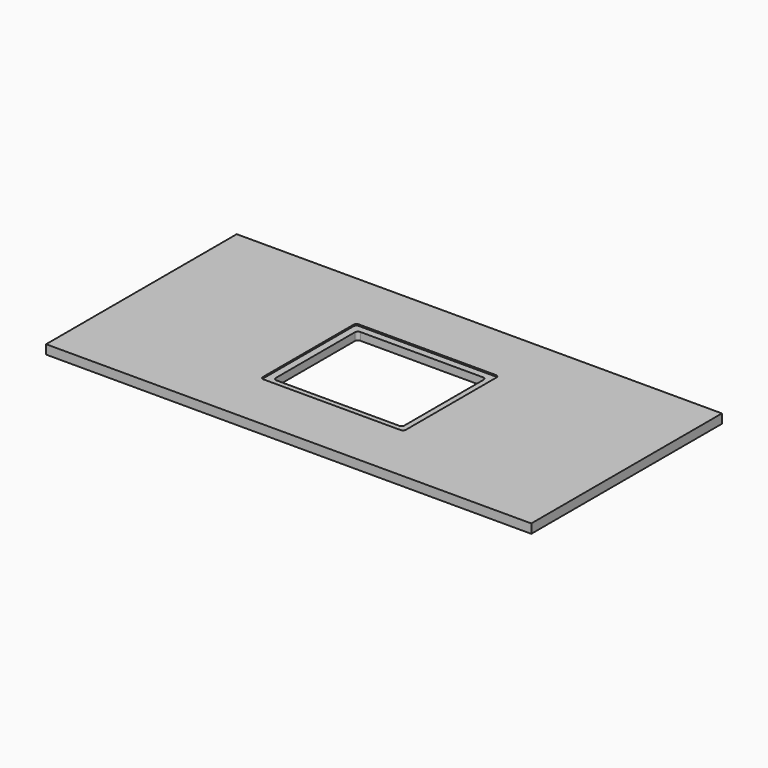
from build123d import *

# Parameters (mm, degrees)
F0_W     = 1018
F0_H     = 500
F1_DEPTH = 19.2
F3_DEPTH = 3
F4_DEPTH = 19.2


with BuildPart() as f1:
    # F0 (on Top) → F1 (new body)
    with BuildSketch(Plane.XY):
        with Locations((9, 0)):
            Rectangle(F0_W, F0_H)
    extrude(amount=F1_DEPTH)

    # F2 (on face) → F3 (cut)
    with BuildSketch(Plane.XY.offset(19.2)):
        with BuildLine():
            ThreePointArc((150, 118.65), (148.140128, 123.140128), (143.65, 125))
            Line((143.65, 125), (-143.65, 125))
            ThreePointArc((-143.65, 125), (-148.140128, 123.140128), (-150, 118.65))
            Line((-150, 118.65), (-150, -118.65))
            ThreePointArc((-150, -118.65), (-148.140128, -123.140128), (-143.65, -125))
            Line((-143.65, -125), (143.65, -125))
            ThreePointArc((143.65, -125), (148.140128, -123.140128), (150, -118.65))
            Line((150, -118.65), (150, 118.65))
        make_face()
        with BuildLine():
            Line((-135, -103.65), (-135, 103.65))
            ThreePointArc((-135, 103.65), (-133.140128, 108.140128), (-128.65, 110))
            Line((-128.65, 110), (128.65, 110))
            ThreePointArc((128.65, 110), (133.140128, 108.140128), (135, 103.65))
            Line((135, 103.65), (135, -103.65))
            ThreePointArc((135, -103.65), (133.140128, -108.140128), (128.65, -110))
            Line((128.65, -110), (-128.65, -110))
            ThreePointArc((-128.65, -110), (-133.140128, -108.140128), (-135, -103.65))
        make_face(mode=Mode.SUBTRACT)
    extrude(amount=-F3_DEPTH, mode=Mode.SUBTRACT)

    # F2 (on face) → F4 (cut, through all)
    with BuildSketch(Plane.XY.offset(19.2)):
        with BuildLine():
            ThreePointArc((-128.65, 110), (-133.140128, 108.140128), (-135, 103.65))
            Line((-135, 103.65), (-135, -103.65))
            ThreePointArc((-135, -103.65), (-133.140128, -108.140128), (-128.65, -110))
            Line((-128.65, -110), (128.65, -110))
            ThreePointArc((128.65, -110), (133.140128, -108.140128), (135, -103.65))
            Line((135, -103.65), (135, 103.65))
            ThreePointArc((135, 103.65), (133.140128, 108.140128), (128.65, 110))
            Line((128.65, 110), (-128.65, 110))
        make_face()
    extrude(amount=-F4_DEPTH, mode=Mode.SUBTRACT)


solid = f1.part
